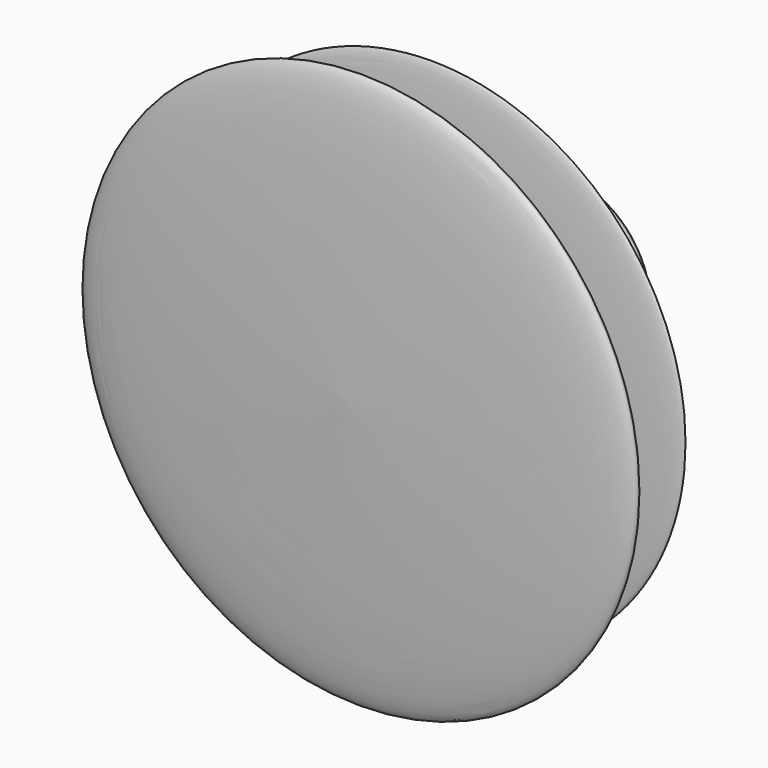
from build123d import *


with BuildPart() as f1:
    # F0 (on Top) → F1 (revolve)
    with BuildSketch(Plane.XY):
        with BuildLine():
            add(Edge.make_bspline(
                [(0, 55.9675879776), (14.0456440911, 49.7674449163), (38.5408753804, 38.9545596311), (-9.6808666437, 43.066970279), (59.7367344466, 26.1023234006), (-18.8232287818, 29.9697893453), (87.050258307, 9.4499010779), (-31.1749915576, 14.6611225466), (119.6677680638, -3.2559349113), (-30.3199985574, -1.7494354597), (120.0022899514, -26.8148318483), (41.624724774, -28.479307434), (0, -29.3632764369)],
                knots=[0, 0, 0, 0, 0.0843713757, 0.1471414447, 0.2323454706, 0.3106194887, 0.412250394, 0.5087865004, 0.6286140882, 0.7419564188, 0.862958322, 1, 1, 1, 1], degree=3))
            Line((0, 55.9675879776), (0, -29.3632764369))
        make_face()
    revolve(axis=Axis((0, 13.3021557704, 0), (0, -1, 0)))


solid = f1.part
